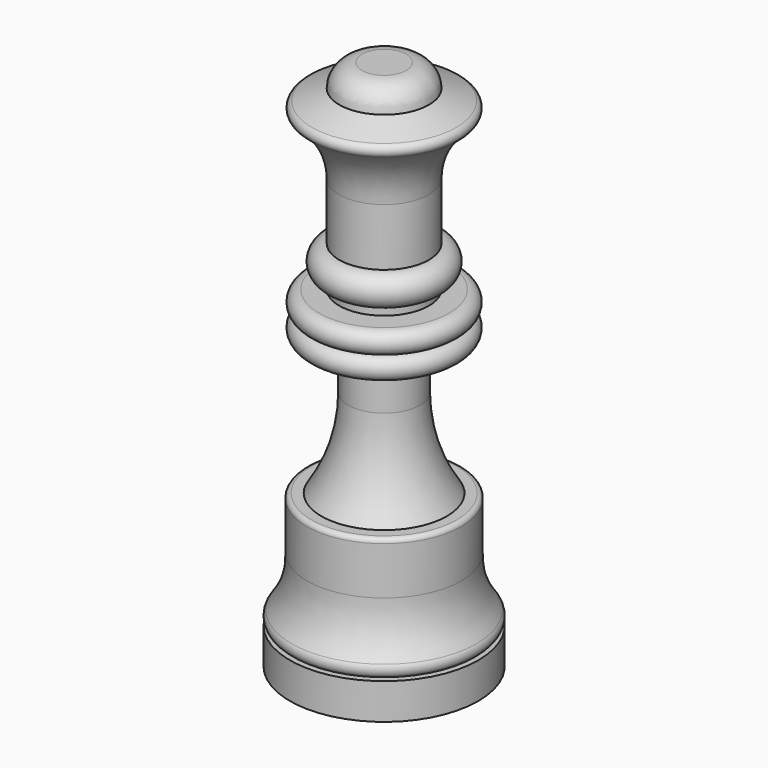
from build123d import *


with BuildPart() as part:
    # Sketch → Revolution (revolve)
    with BuildSketch(Plane.XZ):
        with BuildLine():
            Line((0, 0), (10.5, 0))
            Line((10.5, 0), (10.5, 4))
            Line((10.5, 4), (9.522453, 4))
            ThreePointArc((9.522453, 4), (10.395581, 4.53795), (10.307734, 5.559726))
            ThreePointArc((8.6, 11.166233), (8.969378, 8.215405), (10.307734, 5.559726))
            Line((8.6, 11.166233), (8.6, 16.5))
            ThreePointArc((8.6, 16.5), (8.453553, 16.853553), (8.1, 17))
            Line((7, 17), (8.1, 17))
            ThreePointArc((4, 26.909846), (4.766438, 21.732852), (7, 17))
            Line((4, 26.909846), (4, 32))
            Line((4, 32), (7.25, 32))
            ThreePointArc((7.25, 32), (8.5, 33.25), (7.25, 34.5))
            ThreePointArc((7.25, 34.5), (8.5, 35.75), (7.25, 37))
            Line((7.25, 37), (5, 37))
            Line((5, 37), (5, 38))
            ThreePointArc((5, 38), (6.75, 39.75), (5, 41.5))
            Line((5, 41.5), (5, 47.894929))
            ThreePointArc((8.202364, 54.220775), (5.846205, 51.440048), (5, 47.894929))
            ThreePointArc((8.202364, 54.220775), (8.494393, 54.89899), (8.044744, 55.484714))
            Line((5, 56.72), (8.044744, 55.484714))
            ThreePointArc((5, 56.72), (4.256052, 58.516051), (2.460001, 59.26))
            Line((2.460001, 59.26), (0, 59.26))
            Line((0, 59.26), (0, 0))
        make_face()
    revolve(axis=Axis((0, 0, 0), (0, 0, 1)))


solid = part.part
